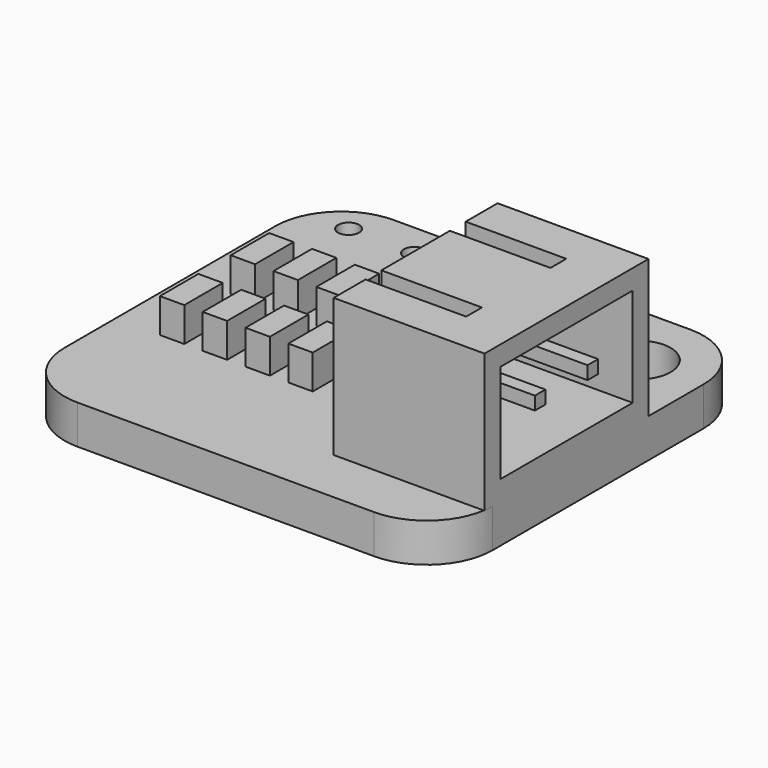
from build123d import *

# Parameters (mm, degrees)
F0_W      = 16.51
F0_H      = 15.24
F1_DEPTH  = 1.4986
F2_R      = 1.27
F3_DEPTH  = 1.4986
F4_R      = 2.54
F5_W      = 5.8166
F5_H      = 7.8994
F6_DEPTH  = 5.334
F7_W      = 6.3754
F7_H      = 3.81
F7_W_2    = 0.508
F7_H_2    = 0.508
F8_DEPTH  = 5.0546
F9_W      = 3.8771615364
F9_H      = 0.762
F10_DEPTH = 1.27
F11_R     = 0.4064
F12_DEPTH = 1.4986
F13_W     = 0.9398
F13_H     = 1.8542
F14_DEPTH = 1.3208


with BuildPart() as f1:
    # F0 (on Top) → F1 (new body)
    with BuildSketch(Plane.XY):
        Rectangle(F0_W, F0_H)
    extrude(amount=F1_DEPTH)

    # F2 (on face) → F3 (cut, through all)
    with BuildSketch(Plane.XY.offset(1.4986)):
        with Locations((5.715, 5.08)):
            Circle(F2_R)
    extrude(amount=-F3_DEPTH, mode=Mode.SUBTRACT)

    # F4
    f4_edges = [f1.edges().sort_by_distance(p)[0] for p in [
        (8.255, -7.62, 0.7493),
        (8.255, 7.62, 0.7493),
        (-8.255, -7.62, 0.7493),
        (-8.255, 7.62, 0.7493),
    ]]
    fillet(f4_edges, radius=F4_R)

    # F5 (on face) → F6 (join)
    with BuildSketch(Plane.XY.offset(1.4986)):
        with Locations((5.3467, -1.524)):
            Rectangle(F5_W, F5_H)
    extrude(amount=F6_DEPTH)

    # F7 (on face) → F8 (cut, through all)
    with BuildSketch(Plane.YZ.offset(8.255)):
        with Locations((-1.524, 4.1656)):
            Rectangle(F7_W, F7_H)
        with Locations((-2.794, 4.1656)):
            Rectangle(F7_W_2, F7_H_2, mode=Mode.SUBTRACT)
        with Locations((-0.254, 4.1656)):
            Rectangle(F7_W_2, F7_H_2, mode=Mode.SUBTRACT)
    extrude(amount=-F8_DEPTH, mode=Mode.SUBTRACT)

    # F9 (on face) → F10 (cut)
    with BuildSketch(Plane.XY.offset(6.8326)):
        with Locations((4.3769807682, 0.508)):
            Rectangle(F9_W, F9_H)
        with Locations((4.3769807682, -3.556)):
            Rectangle(F9_W, F9_H)
    extrude(amount=-F10_DEPTH, mode=Mode.SUBTRACT)

    # F11 (on face) → F12 (cut, through all)
    with BuildSketch(Plane.XY.offset(1.4986)):
        with Locations((-6.4262, 6.3246)):
            Circle(F11_R)
        with Locations((-3.8862, 6.3246)):
            Circle(F11_R)
        with Locations((-1.3462, 6.3246)):
            Circle(F11_R)
    extrude(amount=-F12_DEPTH, mode=Mode.SUBTRACT)

    # F13 (on face) → F14 (join)
    with BuildSketch(Plane.XY.offset(1.4986)):
        with Locations((-6.0639006243, 1.7056578491)):
            Rectangle(F13_W, F13_H)
        with Locations((-4.4129006243, 1.7056578491)):
            Rectangle(F13_W, F13_H)
        with Locations((-2.7619006243, 1.7056578491)):
            Rectangle(F13_W, F13_H)
        with Locations((-1.1109006243, 1.7056578491)):
            Rectangle(F13_W, F13_H)
        with Locations((-6.0639006243, -1.7056578491)):
            Rectangle(F13_W, F13_H)
        with Locations((-1.1109006243, -1.7056578491)):
            Rectangle(F13_W, F13_H)
        with Locations((-4.4129006243, -1.7056578491)):
            Rectangle(F13_W, F13_H)
        with Locations((-2.7619006243, -1.7056578491)):
            Rectangle(F13_W, F13_H)
    extrude(amount=F14_DEPTH)


solid = f1.part
